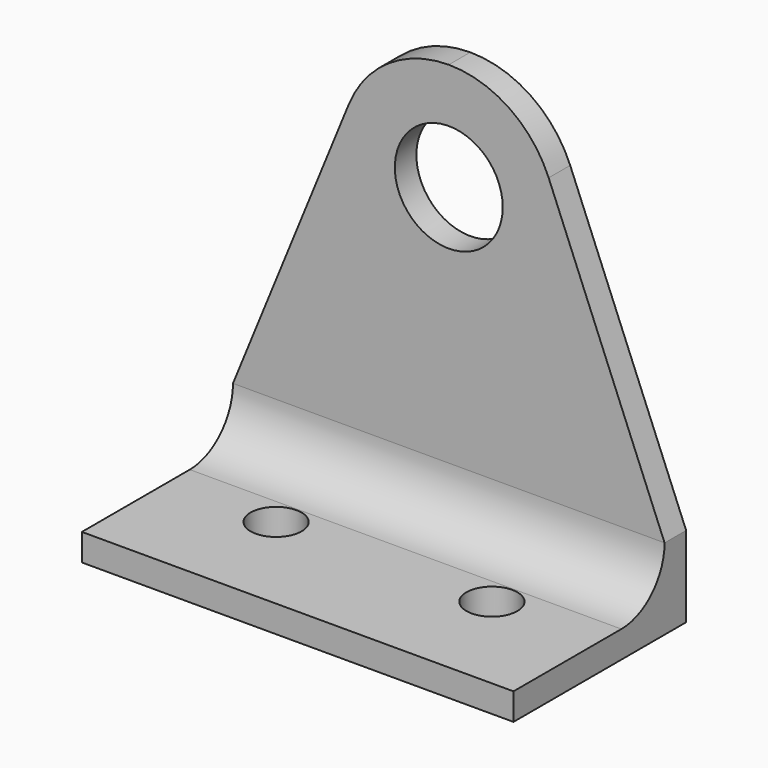
from build123d import *

# Parameters (mm, degrees)
F1_DEPTH = 25.4
F2_R     = 6.35
F4_D     = 6
F5_R     = 6.35
F6_DEPTH = 3.171


with BuildPart() as f1:
    # F0 (on Right) → F1 (new body, symmetric)
    with BuildSketch(Plane.YZ):
        Polygon((0, 3.17), (0, 0), (25.4, 0), (25.4, 50.8), (22.23, 50.8), (22.23, 3.17), align=None)
    extrude(amount=F1_DEPTH, both=True)

    # F2
    f2_edges = [f1.edges().sort_by_distance(p)[0] for p in [
        (0, 22.23, 3.17),
    ]]
    fillet(f2_edges, radius=F2_R)

    # F4 (through all)
    with Locations(Plane.XY.offset(3.17)):
        with Locations((-12.7, 12.7), (12.7, 12.7)):
            Hole(F4_D / 2)

    # F5 (on face) → F6 (cut, through all)
    with BuildSketch(Plane.XZ.offset(-22.23)):
        with BuildLine():
            Line((-25.4, 9.52), (-11.756103, 42.904585))
            ThreePointArc((-11.756103, 42.904585), (-7.08067, 48.642965), (0, 50.8))
            Line((0, 50.8), (-25.4, 50.8))
            Line((-25.4, 50.8), (-25.4, 9.52))
        make_face()
        with BuildLine():
            ThreePointArc((0, 50.8), (7.08067, 48.642965), (11.756103, 42.904585))
            Line((11.756103, 42.904585), (25.4, 9.52))
            Line((25.4, 9.52), (25.4, 50.8))
            Line((25.4, 50.8), (0, 50.8))
        make_face()
        with Locations((0, 38.1)):
            Circle(F5_R)
    extrude(amount=-F6_DEPTH, mode=Mode.SUBTRACT)


solid = f1.part
